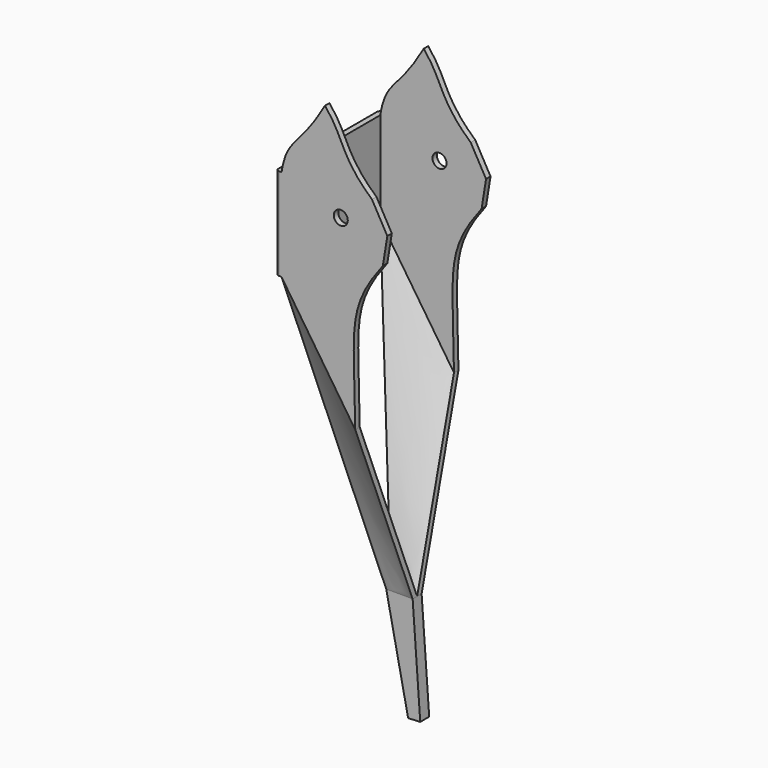
from build123d import *

# Parameters (mm, degrees)
F1_DEPTH                 = 2
F0_R                     = 2.5
F0_W                     = 1.9671103259
F0_H                     = 32.8726123017
F2_DEPTH                 = 23
F3_DEPTH                 = 21
F3_FACE_W                = 2
F3_FACE_H                = 47.3760884154
FLPUHT3DEIL0ECL_2_FACE_W = 9.4088794868
FLPUHT3DEIL0ECL_2_FACE_H = 2
F5_DEPTH                 = 2
F5_FACE_W                = 9.4088794868
F5_FACE_H                = 2
F7_R                     = 1


with BuildPart() as f1:
    # F0 (on Front) → F1 (new body)
    with BuildSketch(Plane.XZ):
        Polygon((-27.4859799968, -94.5354314736), (-36.8948594836, -94.5354314736), (-29.0944709842, -132.4704811186), (-24.7819819802, -132.2534833467), align=None)
    extrude(amount=-F1_DEPTH)



with BuildPart() as f2:
    # F0 (on Front) → F2 (new body, symmetric)
    with BuildSketch(Plane.XZ):
        with BuildLine():
            Line((-57.4354853918, 38.2308801777), (-57.4354853918, 5.358267876))
            Line((-57.4354853918, 5.358267876), (-31.1536770314, -34.0594984591))
            add(Edge.make_bspline(
                [(-21.304015945, 20.5783754124), (-34.3524827141, 3.69984575), (-31.5767975227, -1.8766191306), (-31.1536770314, -34.0594984591)],
                knots=[0, 0, 0, 0, 56.0586211891, 56.0586211891, 56.0586211891, 56.0586211891], degree=3))
            Line((-21.304015945, 20.5783754124), (-19.717078656, 30.4542761296))
            Line((-19.717078656, 30.4542761296), (-25.1840222627, 40.1536934078))
            add(Edge.make_bspline(
                [(-41.9375598431, 64.1377046704), (-34.8834395409, 55.6727573276), (-36.6469696164, 50.3821708262), (-25.1840222627, 40.1536934078)],
                knots=[0, 0, 0, 0, 29.2560048145, 29.2560048145, 29.2560048145, 29.2560048145], degree=3))
            add(Edge.make_bspline(
                [(-41.9375598431, 64.1377046704), (-51.2842722237, 47.7368719876), (-55.3985677235, 50.4242394975), (-57.4354853918, 38.2308801777)],
                knots=[0, 0, 0, 0, 30.1885616022, 30.1885616022, 30.1885616022, 30.1885616022], degree=3))
        make_face()
        with Locations((-36.313764751, 30.7701863348)):
            Circle(F0_R, mode=Mode.SUBTRACT)
        with Locations((-58.4190405548, 21.7945740269)):
            Rectangle(F0_W, F0_H)
    extrude(amount=F2_DEPTH, both=True)

    # F0 (on Front) → F3 (cut, symmetric)
    with BuildSketch(Plane.XZ):
        with BuildLine():
            Line((-57.4354853918, 38.2308801777), (-57.4354853918, 5.358267876))
            Line((-57.4354853918, 5.358267876), (-31.1536770314, -34.0594984591))
            add(Edge.make_bspline(
                [(-21.304015945, 20.5783754124), (-34.3524827141, 3.69984575), (-31.5767975227, -1.8766191306), (-31.1536770314, -34.0594984591)],
                knots=[0, 0, 0, 0, 56.0586211891, 56.0586211891, 56.0586211891, 56.0586211891], degree=3))
            Line((-21.304015945, 20.5783754124), (-19.717078656, 30.4542761296))
            Line((-19.717078656, 30.4542761296), (-25.1840222627, 40.1536934078))
            add(Edge.make_bspline(
                [(-41.9375598431, 64.1377046704), (-34.8834395409, 55.6727573276), (-36.6469696164, 50.3821708262), (-25.1840222627, 40.1536934078)],
                knots=[0, 0, 0, 0, 29.2560048145, 29.2560048145, 29.2560048145, 29.2560048145], degree=3))
            add(Edge.make_bspline(
                [(-41.9375598431, 64.1377046704), (-51.2842722237, 47.7368719876), (-55.3985677235, 50.4242394975), (-57.4354853918, 38.2308801777)],
                knots=[0, 0, 0, 0, 30.1885616022, 30.1885616022, 30.1885616022, 30.1885616022], degree=3))
        make_face()
        with Locations((-36.313764751, 30.7701863348)):
            Circle(F0_R, mode=Mode.SUBTRACT)
    extrude(amount=F3_DEPTH, both=True, mode=Mode.SUBTRACT)


with BuildPart() as f1_1:
    add(f1.part)

    add(f2.part)  # F4 merges F2
    # F3_face (on face) → F4 section 0
    with BuildSketch(Plane(origin=(-44.2945812116, 22, -14.3506152915), x_dir=(0, -1, 0), z_dir=(-0.8320181689, 0, -0.5547483813))):
        Rectangle(F3_FACE_W, F3_FACE_H)
    # FlpuHt3dEil0ecl_2_face (on face) → F4 section 1
    with BuildSketch(Plane(origin=(-32.1904197402, 1, -94.5354314736), x_dir=(1, 0, 0), z_dir=(0, 0, 1))):
        Rectangle(FLPUHT3DEIL0ECL_2_FACE_W, FLPUHT3DEIL0ECL_2_FACE_H)
    loft()

    # F0 (on Front) → F5 (join)
    with BuildSketch(Plane.XZ):
        Polygon((-27.4859799968, -94.5354314736), (-36.8948594836, -94.5354314736), (-29.0944709842, -132.4704811186), (-24.7819819802, -132.2534833467), align=None)
    extrude(amount=F5_DEPTH)

    # F3_face (on face) → F6 section 0
    with BuildSketch(Plane(origin=(-44.2945812116, 22, -14.3506152915), x_dir=(0, -1, 0), z_dir=(-0.8320181689, 0, -0.5547483813))):
        with Locations((44, 0)):
            Rectangle(F3_FACE_W, F3_FACE_H)
    # F5_face (on face) → F6 section 1
    with BuildSketch(Plane(origin=(-32.1904197402, -1, -94.5354314736), x_dir=(1, 0, 0), z_dir=(0, 0, 1))):
        Rectangle(F5_FACE_W, F5_FACE_H)
    loft()

    # F7
    f7_edges = [f1_1.edges().sort_by_distance(p)[0] for p in [
        (-59.402596, -23, 21.794574),
        (-59.402596, 23, 21.794574),
    ]]
    fillet(f7_edges, radius=F7_R)


solid = f1_1.part
